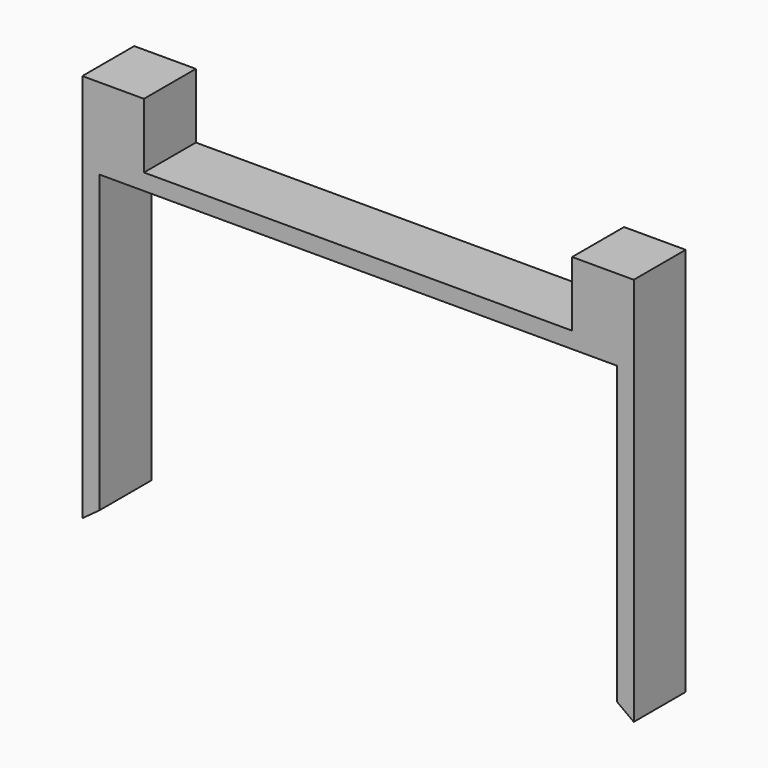
from build123d import *

# Parameters (mm, degrees)
F0_W     = 2.413
F0_H     = 2.54
F1_DEPTH = 2.54


with BuildPart() as f1:
    # F0 (on Front) → F1 (new body)
    with BuildSketch(Plane.XZ):
        Polygon((-44.497715, 19.128243), (-46.910715, 19.128243), (-46.910715, 6.428243), (-46.24188, 6.91544), (-46.24188, 18.49121), (-25.985625, 18.49121), (-25.985625, 6.91544), (-25.320715, 6.428243), (-25.320715, 19.128243), (-27.733715, 19.128243), align=None)
        with Locations((-45.704215, 20.398243)):
            Rectangle(F0_W, F0_H)
        with Locations((-26.527215, 20.398243)):
            Rectangle(F0_W, F0_H)
    extrude(amount=F1_DEPTH)


solid = f1.part
